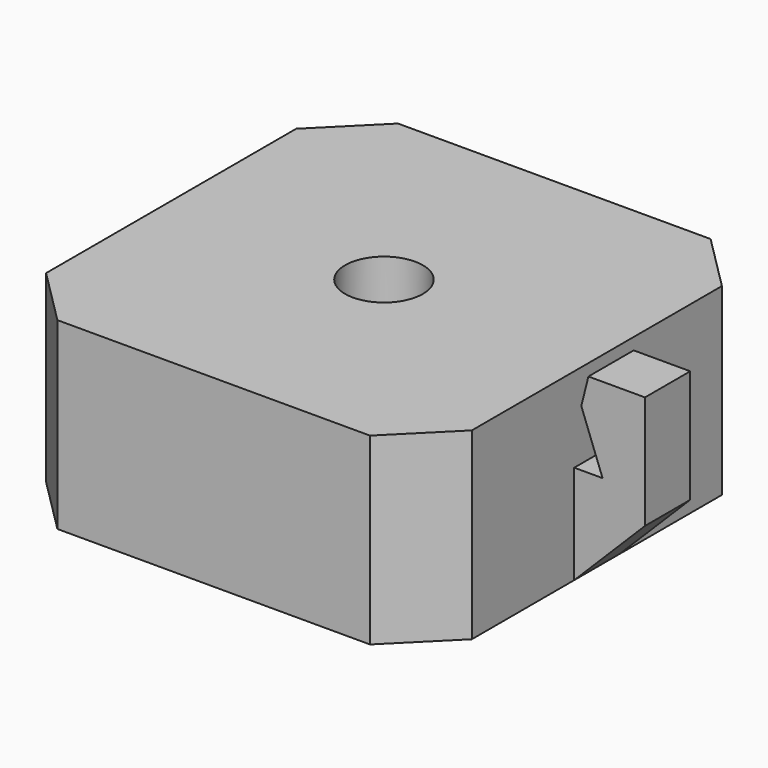
from build123d import *

# Parameters (mm, degrees)
SKETCH007_W     = 30.1
SKETCH007_H     = 30.1
SKETCH007_W_2   = 20.1
SKETCH007_H_2   = 20.1
PAD005_DEPTH    = 10
SKETCH008_W     = 30.1
SKETCH008_H     = 30.1
SKETCH008_R     = 2.75
PAD006_DEPTH    = 3
PAD007_DEPTH    = 2
CHAMFER003_SIZE = 4


with BuildPart() as part:
    # Sketch007 → Pad005 (new body)
    with BuildSketch(Plane.XY):
        Rectangle(SKETCH007_W, SKETCH007_H)
        Rectangle(SKETCH007_W_2, SKETCH007_H_2, mode=Mode.SUBTRACT)
    extrude(amount=-PAD005_DEPTH)

    # Sketch008 → Pad006 (join)
    with BuildSketch(Plane.XY):
        Rectangle(SKETCH008_W, SKETCH008_H)
        Circle(SKETCH008_R, mode=Mode.SUBTRACT)
    extrude(amount=PAD006_DEPTH)

    # Sketch009 → Pad007 (join, symmetric)
    with BuildSketch(Plane.XZ):
        Polygon((16.05, 3), (15.55, 1), (17.05, -3), (15.05, -3), (15.05, -10), (20.05, -5), (20.05, 3), align=None)
    extrude(amount=PAD007_DEPTH, both=True)

    # Chamfer003
    chamfer003_edges = [part.edges().sort_by_distance(p)[0] for p in [
        (15.05, -15.05, 1.5),
        (15.05, -15.05, -5),
        (-15.05, -15.05, 1.5),
        (-15.05, -15.05, -5),
        (15.05, 15.05, 1.5),
        (15.05, 15.05, -5),
        (-15.05, 15.05, 1.5),
        (-15.05, 15.05, -5),
    ]]
    chamfer(chamfer003_edges, length=CHAMFER003_SIZE)


with BuildPart() as part_1:
    # Body003 placement: moved
    add(part.part.moved(Location((0, 0, 100))))


solid = part_1.part
